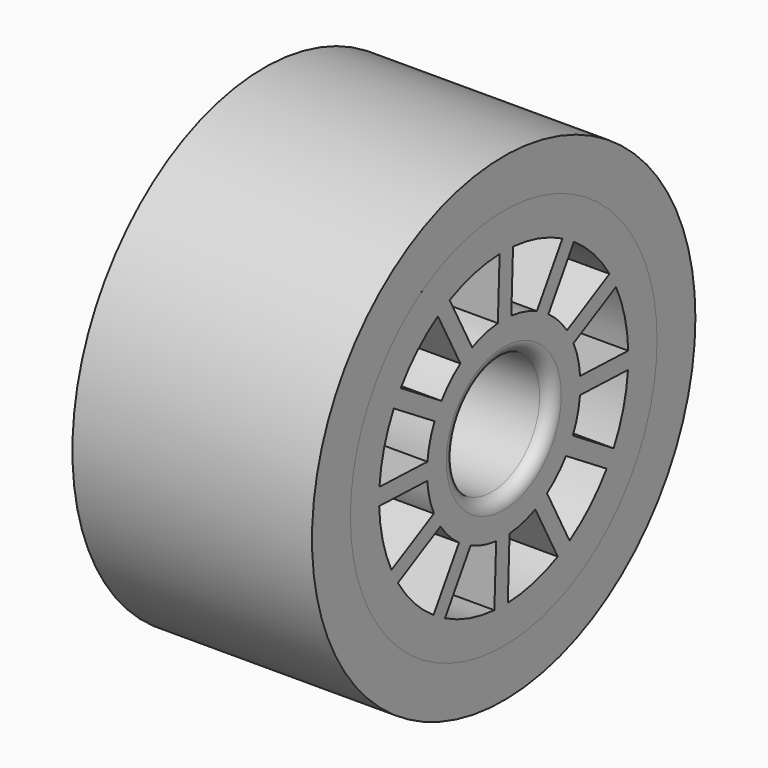
from build123d import *

# Parameters (mm, degrees)
F0_R     = 10
F0_R_2   = 8
F1_DEPTH = 10
F0_R_3   = 2.5
F2_DEPTH = 10
F3_R     = 0.5


with BuildPart() as f1:
    # F0 (on Right) → F1 (new body)
    with BuildSketch(Plane.YZ):
        Circle(F0_R)
        Circle(F0_R_2, mode=Mode.SUBTRACT)
    extrude(amount=-F1_DEPTH)


with BuildPart() as f2:
    # F0 (on Right) → F2 (new body)
    with BuildSketch(Plane.YZ):
        Circle(F0_R_2)
        with BuildLine():
            ThreePointArc((-0.486581, -6.481762), (-1.814104, -6.241717), (-3.063484, -5.732806))
            Line((-3.063484, -5.732806), (-1.729883, -3.606592))
            ThreePointArc((-1.729883, -3.606592), (-1.078764, -3.851788), (-0.395007, -3.980448))
            Line((-0.395007, -3.980448), (-0.486581, -6.481762))
        make_face(mode=Mode.SUBTRACT)
        with BuildLine():
            ThreePointArc((-5.856661, -2.819489), (-6.312537, -1.549798), (-6.496498, -0.213348))
            Line((-6.496498, -0.213348), (-3.988342, -0.305173))
            ThreePointArc((-3.988342, -0.305173), (-3.875128, -0.991657), (-3.644673, -1.648138))
            Line((-3.644673, -1.648138), (-5.856661, -2.819489))
        make_face(mode=Mode.SUBTRACT)
        with BuildLine():
            ThreePointArc((-3.662273, -5.37008), (-4.691919, -4.498433), (-5.519458, -3.433014))
            Line((-5.519458, -3.433014), (-3.301419, -2.258459))
            ThreePointArc((-3.301419, -2.258459), (-2.860131, -2.796364), (-2.33231, -3.249666))
            Line((-2.33231, -3.249666), (-3.662273, -5.37008))
        make_face(mode=Mode.SUBTRACT)
        with BuildLine():
            ThreePointArc((2.819489, -5.856661), (1.549798, -6.312537), (0.213348, -6.496498))
            Line((0.213348, -6.496498), (0.305173, -3.988342))
            ThreePointArc((0.305173, -3.988342), (0.991657, -3.875128), (1.648138, -3.644673))
            Line((1.648138, -3.644673), (2.819489, -5.856661))
        make_face(mode=Mode.SUBTRACT)
        with BuildLine():
            ThreePointArc((5.37008, -3.662273), (4.498433, -4.691919), (3.433014, -5.519458))
            Line((3.433014, -5.519458), (2.258459, -3.301419))
            ThreePointArc((2.258459, -3.301419), (2.796364, -2.860131), (3.249666, -2.33231))
            Line((3.249666, -2.33231), (5.37008, -3.662273))
        make_face(mode=Mode.SUBTRACT)
        with BuildLine():
            ThreePointArc((6.481762, -0.486581), (6.241717, -1.814104), (5.732806, -3.063484))
            Line((5.732806, -3.063484), (3.606592, -1.729883))
            ThreePointArc((3.606592, -1.729883), (3.851788, -1.078764), (3.980448, -0.395007))
            Line((3.980448, -0.395007), (6.481762, -0.486581))
        make_face(mode=Mode.SUBTRACT)
        with BuildLine():
            ThreePointArc((-6.481762, 0.486581), (-6.241717, 1.814104), (-5.732806, 3.063484))
            Line((-5.732806, 3.063484), (-3.606592, 1.729883))
            ThreePointArc((-3.606592, 1.729883), (-3.851788, 1.078764), (-3.980448, 0.395007))
            Line((-3.980448, 0.395007), (-6.481762, 0.486581))
        make_face(mode=Mode.SUBTRACT)
        with BuildLine():
            ThreePointArc((-5.37008, 3.662273), (-4.498433, 4.691919), (-3.433014, 5.519458))
            Line((-3.433014, 5.519458), (-2.258459, 3.301419))
            ThreePointArc((-2.258459, 3.301419), (-2.796364, 2.860131), (-3.249666, 2.33231))
            Line((-3.249666, 2.33231), (-5.37008, 3.662273))
        make_face(mode=Mode.SUBTRACT)
        with BuildLine():
            ThreePointArc((-2.819489, 5.856661), (-1.549798, 6.312537), (-0.213348, 6.496498))
            Line((-0.213348, 6.496498), (-0.305173, 3.988342))
            ThreePointArc((-0.305173, 3.988342), (-0.991657, 3.875128), (-1.648138, 3.644673))
            Line((-1.648138, 3.644673), (-2.819489, 5.856661))
        make_face(mode=Mode.SUBTRACT)
        Circle(F0_R_3, mode=Mode.SUBTRACT)
        with BuildLine():
            ThreePointArc((3.662273, 5.37008), (4.691919, 4.498433), (5.519458, 3.433014))
            Line((5.519458, 3.433014), (3.301419, 2.258459))
            ThreePointArc((3.301419, 2.258459), (2.860131, 2.796364), (2.33231, 3.249666))
            Line((2.33231, 3.249666), (3.662273, 5.37008))
        make_face(mode=Mode.SUBTRACT)
        with BuildLine():
            ThreePointArc((5.856661, 2.819489), (6.312537, 1.549798), (6.496498, 0.213348))
            Line((6.496498, 0.213348), (3.988342, 0.305173))
            ThreePointArc((3.988342, 0.305173), (3.875128, 0.991657), (3.644673, 1.648138))
            Line((3.644673, 1.648138), (5.856661, 2.819489))
        make_face(mode=Mode.SUBTRACT)
        with BuildLine():
            Line((0.395007, 3.980448), (0.486581, 6.481762))
            ThreePointArc((0.486581, 6.481762), (1.814104, 6.241717), (3.063484, 5.732806))
            Line((3.063484, 5.732806), (1.729883, 3.606592))
            ThreePointArc((1.729883, 3.606592), (1.078764, 3.851788), (0.395007, 3.980448))
        make_face(mode=Mode.SUBTRACT)
    extrude(amount=-F2_DEPTH)

    # F3
    f3_edges = [f2.edges().sort_by_distance(p)[0] for p in [
        (0, -2.5, 0),
    ]]
    fillet(f3_edges, radius=F3_R)


solid = Compound([f1.part, f2.part])
